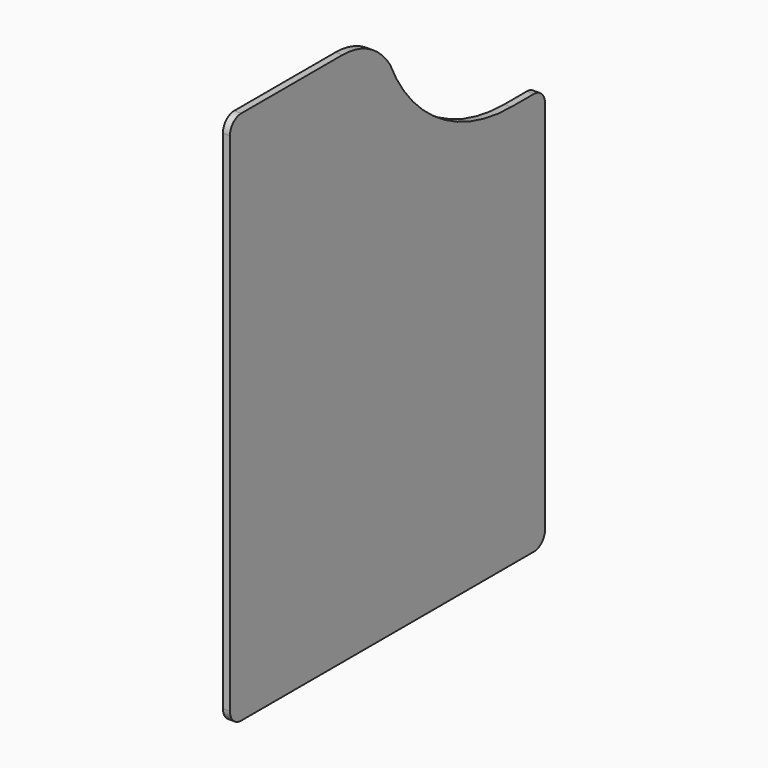
from build123d import *

# Parameters (mm, degrees)
F1_DEPTH = 1.27


with BuildPart() as f1:
    # F0 (on Right) → F1 (new body)
    with BuildSketch(Plane.YZ):
        with BuildLine():
            Line((-11.022406, 42.275636), (-33.882406, 42.275636))
            ThreePointArc((-33.882406, 42.275636), (-35.678458, 41.531687), (-36.422406, 39.735636))
            Line((-36.422406, 39.735636), (-36.422406, -51.704364))
            ThreePointArc((-36.422406, -51.704364), (-35.678458, -53.500415), (-33.882406, -54.244364))
            Line((-33.882406, -54.244364), (32.157594, -54.244364))
            ThreePointArc((32.157594, -54.244364), (33.953645, -53.500415), (34.697594, -51.704364))
            Line((34.697594, -51.704364), (34.697594, 15.978845))
            ThreePointArc((34.697594, 15.978845), (33.953645, 17.774896), (32.157594, 18.518845))
            Line((32.157594, 18.518845), (27.077594, 18.518845))
            ThreePointArc((27.077594, 18.518845), (10.754919, 23.36735), (-0.274019, 36.34041))
            ThreePointArc((-0.274019, 36.34041), (-4.883295, 40.693249), (-11.022406, 42.275636))
        make_face()
    extrude(amount=F1_DEPTH)


solid = f1.part
